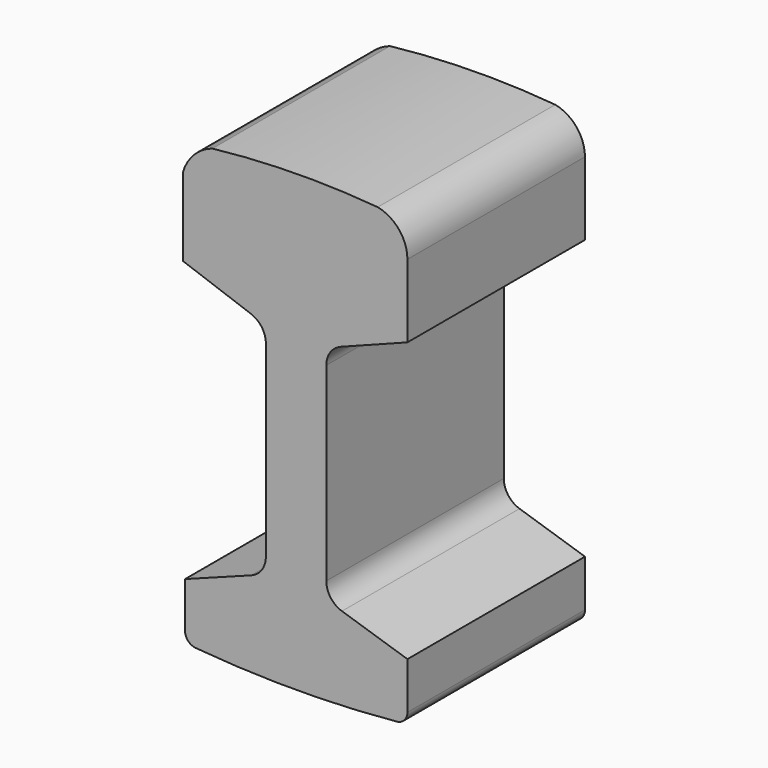
from build123d import *

# Parameters (mm, degrees)
F1_DEPTH = 25


with BuildPart() as f1:
    # F0 (on Front) → F1 (new body)
    with BuildSketch(Plane.XZ):
        with BuildLine():
            ThreePointArc((-33.76589, 51.641924), (-32.545056, 50.71294), (-32.081779, 49.250469))
            Line((-32.081779, 49.250469), (-32.081779, 28.093081))
            ThreePointArc((-32.081779, 28.093081), (-32.534255, 26.646069), (-33.730475, 25.714599))
            Line((-33.730475, 25.714599), (-41.18862, 22.919761))
            Line((-41.18862, 22.919761), (-41.18862, 17.796354))
            ThreePointArc((-41.18862, 17.796354), (-40.799612, 16.85709), (-39.860416, 16.467918))
            ThreePointArc((-39.860416, 16.467918), (-28.577087, 15.99807), (-17.29746, 16.549669))
            ThreePointArc((-17.29746, 16.549669), (-16.465979, 16.98189), (-16.132524, 17.857665))
            Line((-16.132524, 17.857665), (-16.132524, 23.12928))
            Line((-16.132524, 23.12928), (-23.510426, 25.489338))
            ThreePointArc((-23.510426, 25.489338), (-24.788046, 26.410919), (-25.276555, 27.908578))
            Line((-25.276555, 27.908578), (-25.276555, 49.292052))
            ThreePointArc((-25.276555, 49.292052), (-24.82928, 50.731531), (-23.644978, 51.664048))
            Line((-23.644978, 51.664048), (-16.13811, 54.539017))
            Line((-16.13811, 54.539017), (-16.13811, 62.77559))
            ThreePointArc((-16.13811, 62.77559), (-17.082785, 65.416351), (-19.488111, 66.858724))
            ThreePointArc((-19.488111, 66.858724), (-28.802701, 67.197987), (-38.105261, 66.615686))
            ThreePointArc((-38.105261, 66.615686), (-40.178231, 65.319889), (-41.418239, 63.213073))
            Line((-41.418239, 63.213073), (-41.418239, 54.380659))
            Line((-41.418239, 54.380659), (-33.76589, 51.641924))
        make_face()
    extrude(amount=F1_DEPTH)


solid = f1.part
